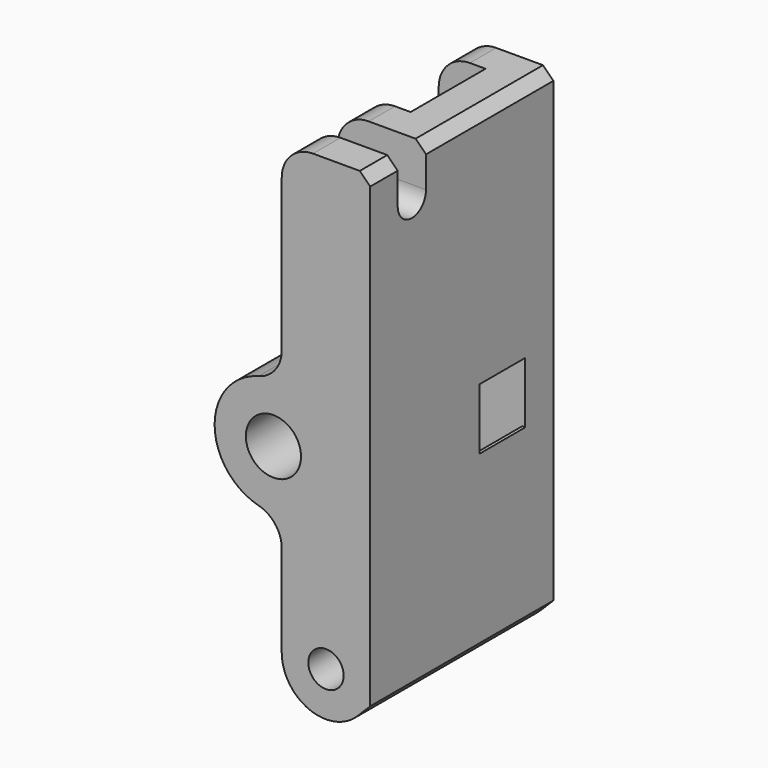
from build123d import *

# Parameters (mm, degrees)
SKETCH054_R     = 1.7
SKETCH054_R_2   = 2.65
PAD016_DEPTH    = 22
SKETCH055_R     = 9.5
POCKET028_DEPTH = 2.75
POCKET029_DEPTH = 10
POCKET030_DEPTH = 4.5
PAD017_DEPTH    = 22
FILLET046_R     = 3
CHAMFER015_SIZE = 1


with BuildPart() as part:
    # Sketch054 → Pad016 (new body)
    with BuildSketch(Plane.XZ):
        with BuildLine():
            Line((14.55, -17.2), (14.55, -5.5930760767))
            ThreePointArc((14.55, 5.5930760767), (8.1, 0), (14.55, -5.5930760767))
            Line((14.55, 5.5930760767), (14.55, 26))
            Line((14.55, 26), (23.05, 26))
            Line((23.05, 26), (23.05, -17.2))
            ThreePointArc((14.55, -17.2), (18.8, -21.45), (23.05, -17.2))
        make_face()
        with Locations((18.8, -17.2)):
            Circle(SKETCH054_R, mode=Mode.SUBTRACT)
        with Locations((13.75, 0)):
            Circle(SKETCH054_R_2, mode=Mode.SUBTRACT)
    extrude(amount=-PAD016_DEPTH)

    # Sketch055 (on DatumPlane) → Pocket028 (cut, symmetric)
    with BuildSketch(Plane(origin=(6.25, 15.85, 0), x_dir=(0, 0, -1), z_dir=(0, 1, 0))):
        with Locations((0, -7.5)):
            Circle(SKETCH055_R)
    extrude(amount=POCKET028_DEPTH, both=True, mode=Mode.SUBTRACT)

    # Sketch056 (on Face12 of Pocket028) → Pocket029 (cut)
    with BuildSketch(Plane(origin=(23.05, 0, 0), x_dir=(0, 0, 1), z_dir=(1, 0, 0))):
        with BuildLine():
            Line((26, -3.3), (22, -3.3))
            ThreePointArc((22, -3.3), (20.3, -5), (22, -6.7))
            Line((22, -6.7), (26, -6.7))
            Line((26, -6.7), (26, -3.3))
        make_face()
    extrude(amount=-POCKET029_DEPTH, mode=Mode.SUBTRACT)

    # Sketch057 (on DatumPlane) → Pocket030 (cut, symmetric)
    with BuildSketch(Plane(origin=(0, 14.35, 0), x_dir=(1, 0, 0), z_dir=(0, 1, 0))):
        Polygon((14.55, -26), (19.05, -26), (14.55, -10.5), align=None)
    extrude(amount=POCKET030_DEPTH, both=True, mode=Mode.SUBTRACT)

    # Sketch058 (on Face8 of Pocket030) → Pad017 (join)
    with BuildSketch(Plane(origin=(0, 22, 0), x_dir=(1, 0, 0), z_dir=(0, 1, 0))):
        Polygon((23.05, 17.2), (23.05, 18.9604076401), (21.80520382, 20.20520382), align=None)
    extrude(amount=-PAD017_DEPTH)

    # Fillet046
    fillet046_edges = [part.edges().sort_by_distance(p)[0] for p in [
        (14.55, 1.65, 26),
        (14.55, 8.275, 26),
        (14.55, 20.425, 26),
        (14.55, 6.55, 5.593076),
        (14.55, 20.3, 5.593076),
        (14.55, 20.3, -5.593076),
        (14.55, 6.55, -5.593076),
    ]]
    fillet(fillet046_edges, radius=FILLET046_R)

    # Chamfer015
    chamfer015_edges = [part.edges().sort_by_distance(p)[0] for p in [
        (23.05, 1.65, 26),
        (23.05, 14.35, 26),
        (23.05, 15.85, 1.939072),
        (23.05, 15.85, -1.939072),
    ]]
    chamfer(chamfer015_edges, length=CHAMFER015_SIZE)


solid = part.part
